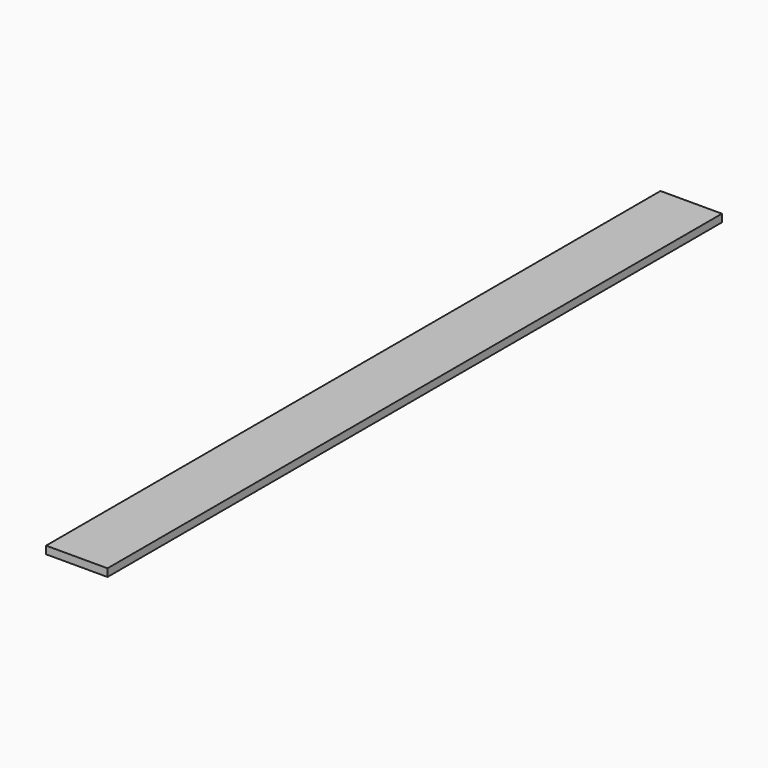
from build123d import *

# Parameters (mm, degrees)
F0_W     = 101.6
F0_H     = 1270
F1_DEPTH = 12.7


with BuildPart() as f1:
    # F0 (on Top) → F1 (new body)
    with BuildSketch(Plane.XY):
        Rectangle(F0_W, F0_H)
    extrude(amount=F1_DEPTH)


with BuildPart() as f2_1:
    # F2: copy of F1
    add(f1.part)


solid = Compound([f1.part, f2_1.part])
